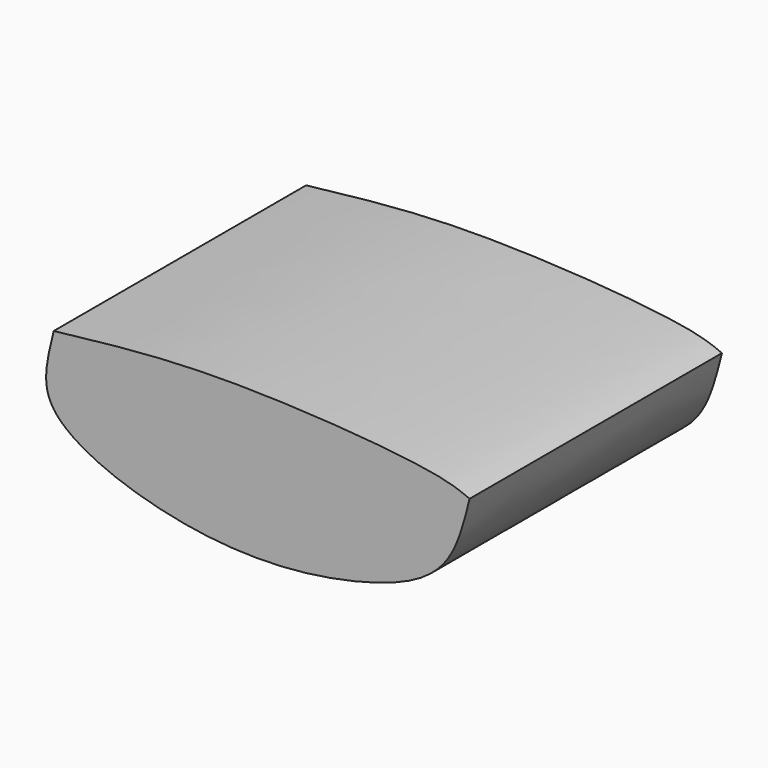
from build123d import *

# Parameters (mm, degrees)
F1_DEPTH = 8.382


with BuildPart() as f1:
    # F0 (on Front) → F1 (new body)
    with BuildSketch(Plane.XZ):
        with BuildLine():
            add(Edge.make_bspline(
                [(-1.9991148729, -17.5729896873), (-0.5822473186, -17.4106636786), (2.243365301, -17.0634785333), (8.1034733661, -17.5012345375), (8.836604665, -17.8144971098), (9.0503664687, -17.9051738232)],
                knots=[0, 0, 0, 0, 0.3904802172, 0.8259992341, 1, 1, 1, 1], degree=3))
            add(Edge.make_bspline(
                [(-1.9991148729, -17.5729896873), (-2.1746030511, -18.311583258), (-2.6252251223, -19.7814045216), (2.1097379433, -21.4261857274), (6.1380007553, -20.9512181603), (8.5471727088, -19.9399550269), (8.8880259895, -18.5638000463), (9.0503664687, -17.9051738232)],
                knots=[0, 0, 0, 0, 0.1609280531, 0.4063240625, 0.6535858616, 0.8345584217, 1, 1, 1, 1], degree=3))
        make_face()
    extrude(amount=F1_DEPTH)


solid = f1.part
